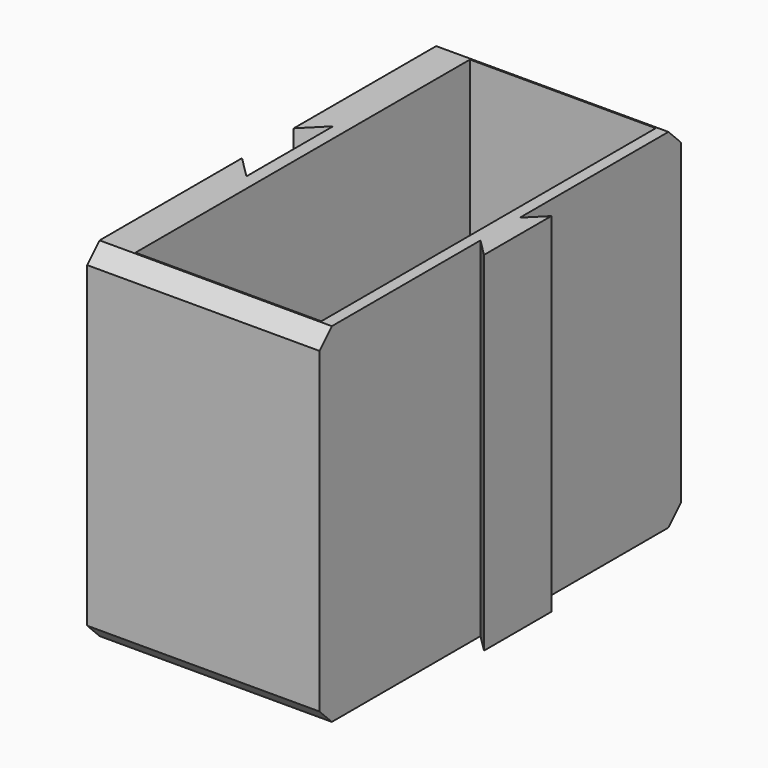
from build123d import *

# Parameters (mm, degrees)
F0_W     = 24
F0_H     = 54
F1_DEPTH = 40
F2_DEPTH = 5
F3_SIZE  = 2


with BuildPart() as f1:
    # F0 (on Top) → F1 (new body)
    with BuildSketch(Plane.XY):
        Polygon((-15, 29.171573), (-15, 4.171573), (-12.171573, 7), (-12.171573, 0), (-12.171573, -7), (-15, -4.171573), (-15, -29.171573), (15, -29.171573), (15, -3.171573), (17.262742, -5.434315), (17.262742, -0.565685), (17.262742, 0.565685), (17.262742, 5.434315), (15, 3.171573), (15, 29.171573), align=None)
        with Locations((1.500004, 0)):
            Rectangle(F0_W, F0_H, mode=Mode.SUBTRACT)
    extrude(amount=F1_DEPTH)

    # F0 (on Top) → F2 (join)
    with BuildSketch(Plane.XY):
        Polygon((-15, 29.171573), (-15, 4.171573), (-12.171573, 7), (-12.171573, 0), (-12.171573, -7), (-15, -4.171573), (-15, -29.171573), (15, -29.171573), (15, -3.171573), (17.262742, -5.434315), (17.262742, -0.565685), (17.262742, 0.565685), (17.262742, 5.434315), (15, 3.171573), (15, 29.171573), align=None)
        with Locations((1.500004, 0)):
            Rectangle(F0_W, F0_H, mode=Mode.SUBTRACT)
        with Locations((1.500004, 0)):
            Rectangle(F0_W, F0_H)
    extrude(amount=-F2_DEPTH)

    # F3
    f3_edges = [f1.edges().sort_by_distance(p)[0] for p in [
        (0, -29.171573, -5),
        (0, 29.171573, -5),
        (0, -29.171573, 40),
        (0, 29.171573, 40),
    ]]
    chamfer(f3_edges, length=F3_SIZE)


solid = f1.part
